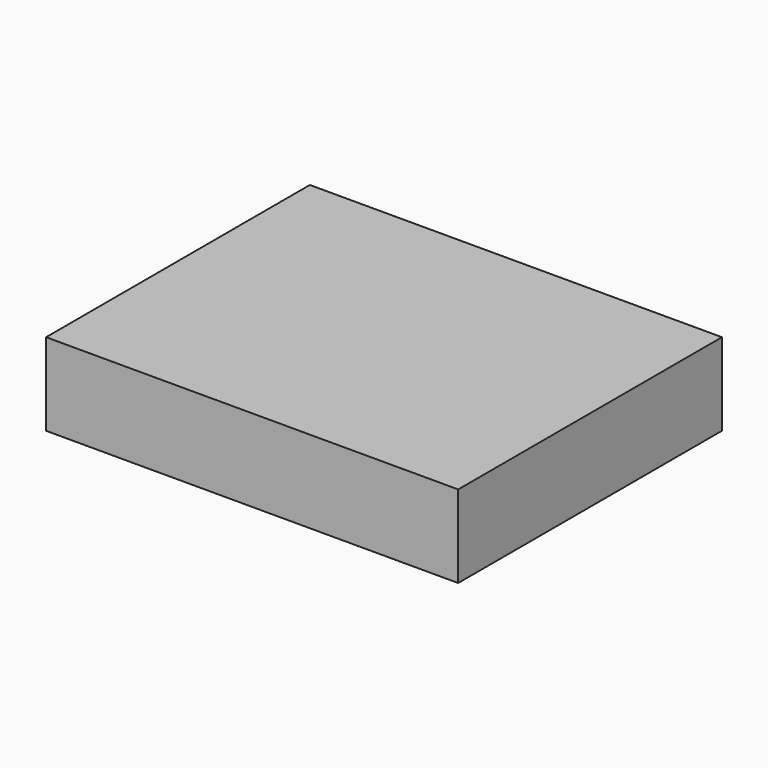
from build123d import *

# Parameters (mm, degrees)
SKETCH_W  = 100
SKETCH_H  = 80
PAD_DEPTH = 10


with BuildPart() as part:
    # Sketch → Pad (new body, symmetric)
    with BuildSketch(Plane.XY):
        Rectangle(SKETCH_W, SKETCH_H)
    extrude(amount=PAD_DEPTH, both=True)


solid = part.part
